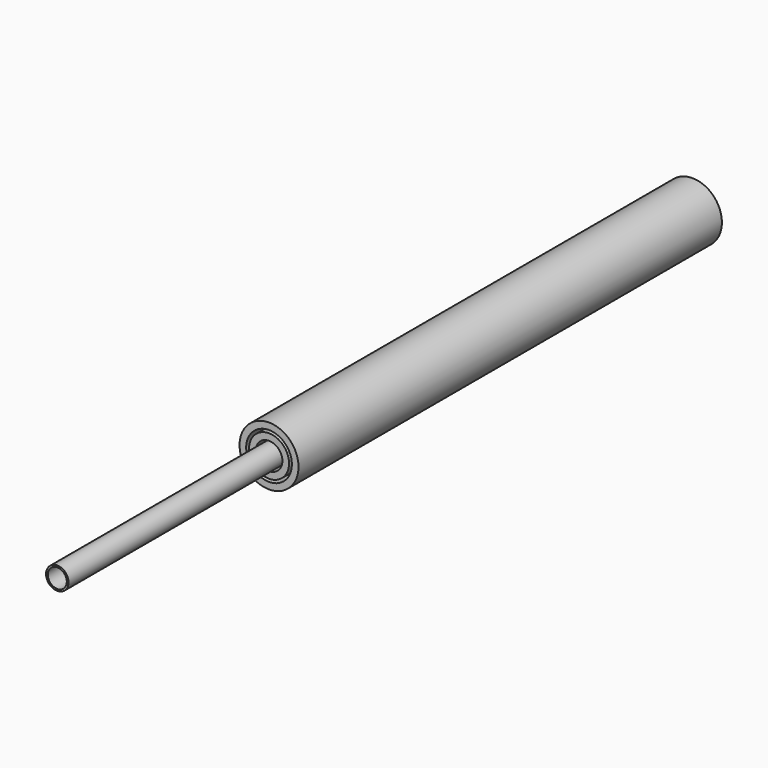
from build123d import *

# Parameters (mm, degrees)
F0_R      = 17
F0_R_2    = 14.35
F1_DEPTH  = 1000
F2_DEPTH  = 39
F3_DEPTH  = 600
F4_DEPTH  = 300
F5_DEPTH  = 500
F6_DEPTH  = 65
F8_R      = 44.55
F8_R_2    = 34.55
F9_DEPTH  = 800
F7_R      = 30.25
F7_R_2    = 20.25
F10_DEPTH = 66
F11_DEPTH = 200
F12_DEPTH = 150
F13_DEPTH = 500
F14_DEPTH = 400
F15_DEPTH = 800
F16_DEPTH = 250
F17_DEPTH = 1200
F18_DEPTH = 800


with BuildPart() as f1:
    # F0 (on Front) → F1 (new body)
    with BuildSketch(Plane.XZ):
        Circle(F0_R)
        Circle(F0_R_2, mode=Mode.SUBTRACT)
    extrude(amount=F1_DEPTH)


with BuildPart() as f2:
    # F0 (on Front) → F2 (new body)
    with BuildSketch(Plane.XZ):
        Circle(F0_R)
        Circle(F0_R_2, mode=Mode.SUBTRACT)
    extrude(amount=F2_DEPTH)


with BuildPart() as f3:
    # F0 (on Front) → F3 (new body)
    with BuildSketch(Plane.XZ):
        Circle(F0_R)
        Circle(F0_R_2, mode=Mode.SUBTRACT)
    extrude(amount=F3_DEPTH)


with BuildPart() as f4:
    # F0 (on Front) → F4 (new body)
    with BuildSketch(Plane.XZ):
        Circle(F0_R)
        Circle(F0_R_2, mode=Mode.SUBTRACT)
    extrude(amount=F4_DEPTH)


with BuildPart() as f5:
    # F0 (on Front) → F5 (new body)
    with BuildSketch(Plane.XZ):
        Circle(F0_R)
        Circle(F0_R_2, mode=Mode.SUBTRACT)
    extrude(amount=F5_DEPTH)


with BuildPart() as f6:
    # F0 (on Front) → F6 (new body)
    with BuildSketch(Plane.XZ):
        Circle(F0_R)
        Circle(F0_R_2, mode=Mode.SUBTRACT)
    extrude(amount=F6_DEPTH)


with BuildPart() as f9:
    # F8 (on Front) → F9 (new body)
    with BuildSketch(Plane.XZ):
        Circle(F8_R)
        Circle(F8_R_2, mode=Mode.SUBTRACT)
    extrude(amount=F9_DEPTH)


with BuildPart() as f10:
    # F7 (on Front) → F10 (new body)
    with BuildSketch(Plane.XZ):
        Circle(F7_R)
        Circle(F7_R_2, mode=Mode.SUBTRACT)
    extrude(amount=F10_DEPTH)


with BuildPart() as f11:
    # F0 (on Front) → F11 (new body)
    with BuildSketch(Plane.XZ):
        Circle(F0_R)
        Circle(F0_R_2, mode=Mode.SUBTRACT)
    extrude(amount=F11_DEPTH)


with BuildPart() as f12:
    # F0 (on Front) → F12 (new body)
    with BuildSketch(Plane.XZ):
        Circle(F0_R)
        Circle(F0_R_2, mode=Mode.SUBTRACT)
    extrude(amount=F12_DEPTH)


with BuildPart() as f13:
    # F7 (on Front) → F13 (new body)
    with BuildSketch(Plane.XZ):
        Circle(F7_R)
        Circle(F7_R_2, mode=Mode.SUBTRACT)
    extrude(amount=F13_DEPTH)


with BuildPart() as f14:
    # F0 (on Front) → F14 (new body)
    with BuildSketch(Plane.XZ):
        Circle(F0_R)
        Circle(F0_R_2, mode=Mode.SUBTRACT)
    extrude(amount=F14_DEPTH)


with BuildPart() as f15:
    # F0 (on Front) → F15 (new body)
    with BuildSketch(Plane.XZ):
        Circle(F0_R)
        Circle(F0_R_2, mode=Mode.SUBTRACT)
    extrude(amount=F15_DEPTH)


with BuildPart() as f16:
    # F0 (on Front) → F16 (new body)
    with BuildSketch(Plane.XZ):
        Circle(F0_R)
        Circle(F0_R_2, mode=Mode.SUBTRACT)
    extrude(amount=F16_DEPTH)


with BuildPart() as f17:
    # F0 (on Front) → F17 (new body)
    with BuildSketch(Plane.XZ):
        Circle(F0_R)
        Circle(F0_R_2, mode=Mode.SUBTRACT)
    extrude(amount=F17_DEPTH)


with BuildPart() as f18:
    # F7 (on Front) → F18 (new body)
    with BuildSketch(Plane.XZ):
        Circle(F7_R)
        Circle(F7_R_2, mode=Mode.SUBTRACT)
    extrude(amount=F18_DEPTH)


solid = Compound([f1.part, f2.part, f3.part, f4.part, f5.part, f6.part, f9.part, f10.part, f11.part, f12.part, f13.part, f14.part, f15.part, f16.part, f17.part, f18.part])
